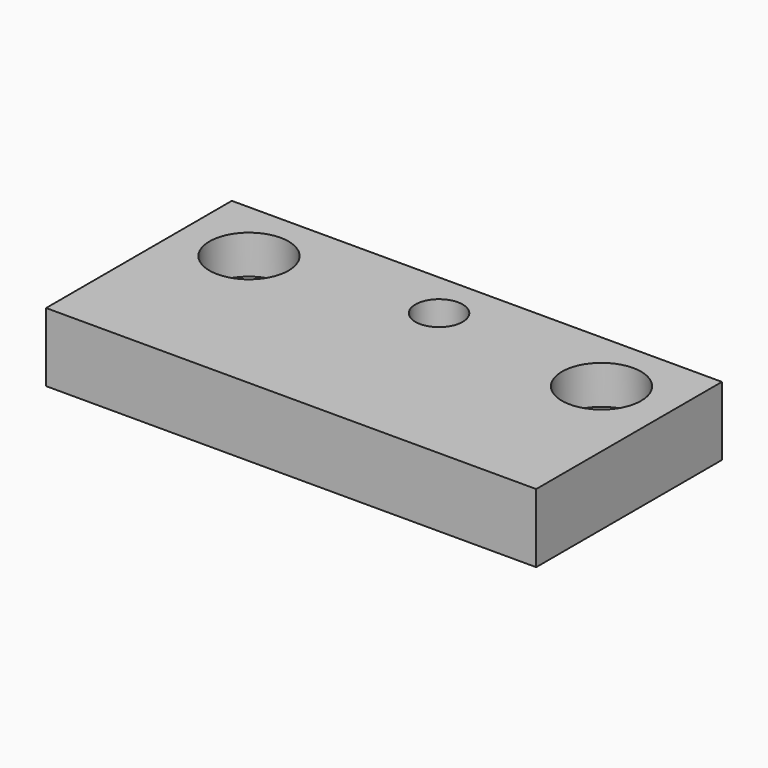
from build123d import *

# Parameters (mm, degrees)
F0_W     = 57
F0_H     = 27
F1_DEPTH = 8
F2_R     = 2.75
F2_R_2   = 2.6
F3_DEPTH = 9
F2_R_3   = 4.6
F4_DEPTH = 4.5


with BuildPart() as f1:
    # F0 (on Top) → F1 (new body)
    with BuildSketch(Plane.XY):
        with Locations((0, 13.5)):
            Rectangle(F0_W, F0_H)
    extrude(amount=F1_DEPTH)

    # F2 (on face) → F3 (cut)
    with BuildSketch(Plane.XY.offset(8)):
        with Locations((0, 21.5)):
            Circle(F2_R)
        with Locations((20.5, 19.5)):
            Circle(F2_R_2)
        with Locations((-20.5, 19.5)):
            Circle(F2_R_2)
    extrude(amount=-F3_DEPTH, mode=Mode.SUBTRACT)

    # F2 (on face) → F4 (cut)
    with BuildSketch(Plane.XY.offset(8)):
        with Locations((-20.5, 19.5)):
            Circle(F2_R_3)
        with Locations((-20.5, 19.5)):
            Circle(F2_R_2, mode=Mode.SUBTRACT)
        with Locations((20.5, 19.5)):
            Circle(F2_R_3)
        with Locations((20.5, 19.5)):
            Circle(F2_R_2, mode=Mode.SUBTRACT)
        with Locations((0, 21.5)):
            Circle(F2_R)
    extrude(amount=-F4_DEPTH, mode=Mode.SUBTRACT)


solid = f1.part
